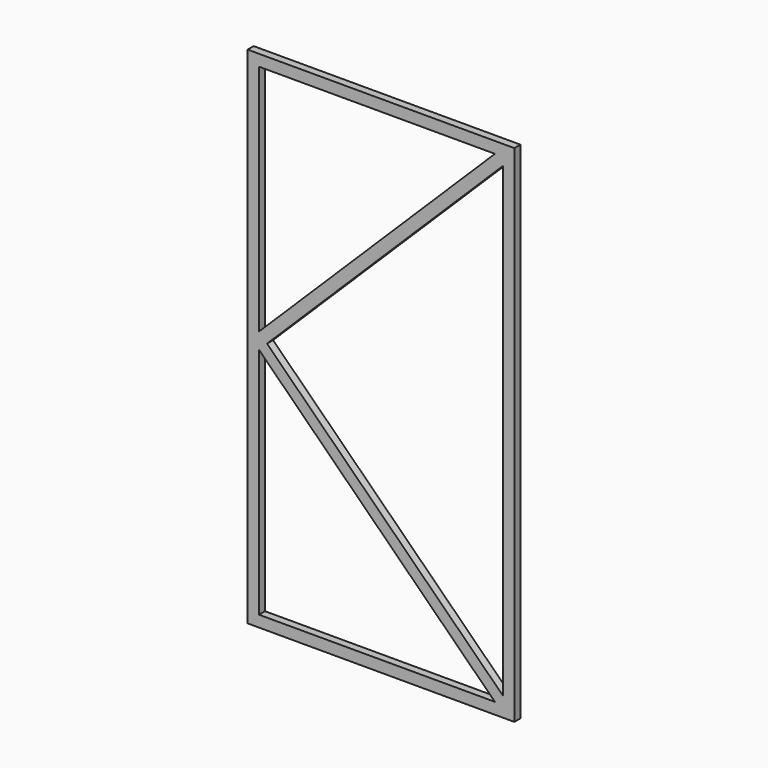
from build123d import *

# Parameters (mm, degrees)
F1_DEPTH = 1.016


with BuildPart() as f1:
    # F0 (on Front) → F1 (new body)
    with BuildSketch(Plane.XZ):
        Polygon((0, 1.524), (0, 0), (35.814, 0), (35.814, 1.524), (34.29, 1.524), (33.206012, 1.524), (1.524, 1.524), align=None)
        Polygon((0, 66.294), (0, 1.524), (1.524, 1.524), (1.524, 32.837616), (1.524, 34.980384), (1.524, 66.294), align=None)
        Polygon((34.29, 1.524), (35.814, 1.524), (35.814, 66.294), (34.29, 66.294), (34.29, 65.222616), (34.29, 2.595384), align=None)
        Polygon((0, 67.818), (0, 66.294), (1.524, 66.294), (33.206012, 66.294), (34.29, 66.294), (35.814, 66.294), (35.814, 67.818), align=None)
        Polygon((33.206012, 1.524), (34.29, 1.524), (34.29, 2.595384), (2.607988, 33.909), (34.29, 65.222616), (34.29, 66.294), (33.206012, 66.294), (1.524, 34.980384), (1.524, 32.837616), align=None)
    extrude(amount=F1_DEPTH)


solid = f1.part
